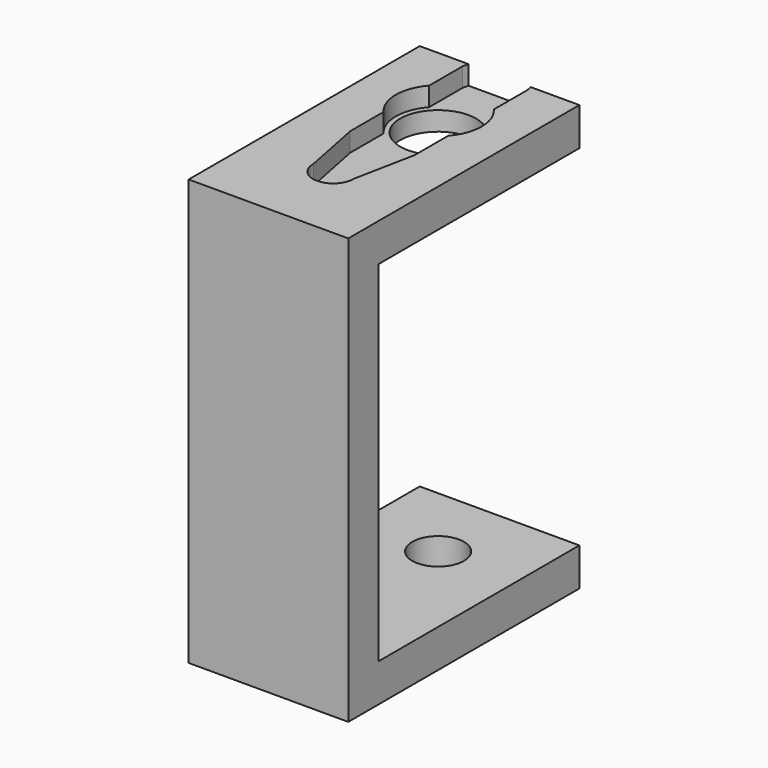
from build123d import *

# Parameters (mm, degrees)
CYLINDER018_R     = 3.4
CYLINDER018_DEPTH = 44
CYLINDER017_R     = 5
CYLINDER017_DEPTH = 9
PAD006_DEPTH      = 5
PAD004_DEPTH      = 21


with BuildPart() as cylinder018:
    # Cylinder018 → Cylinder018 (new body)
    with BuildSketch(Plane(origin=(10.5, -10.1, -9), x_dir=(1, 0, 0), z_dir=(0, 0, 1))):
        Circle(CYLINDER018_R)
    extrude(amount=CYLINDER018_DEPTH)


with BuildPart() as cylinder017:
    # Cylinder017 → Cylinder017 (new body)
    with BuildSketch(Plane(origin=(10.5, -10.1, 44), x_dir=(1, 0, 0), z_dir=(0, 0, 1))):
        Circle(CYLINDER017_R)
    extrude(amount=CYLINDER017_DEPTH)


with BuildPart() as fusion014:
    # Sketch006 → Pad006 (new body)
    with BuildSketch(Plane.XY):
        with BuildLine():
            Line((-4.25, 3.75), (-4.25, 9.25))
            Line((-4.25, 9.25), (-2.65, 17.292388))
            ThreePointArc((2.65, 17.292388), (0, 20), (-2.65, 17.292388))
            Line((2.65, 17.292388), (4.25, 9.25))
            Line((4.25, 3.75), (4.25, 9.25))
            ThreePointArc((4.25, -3.75), (5.657274, 0), (4.25, 3.75))
            Line((4.25, -3.75), (4.25, -9.25))
            Line((2.65, -17.292388), (4.25, -9.25))
            ThreePointArc((-2.65, -17.292388), (0, -20), (2.65, -17.292388))
            Line((-4.25, -9.25), (-2.65, -17.292388))
            Line((-4.25, -3.75), (-4.25, -9.25))
            ThreePointArc((-4.25, 3.75), (-5.657274, 0), (-4.25, -3.75))
        make_face()
    extrude(amount=PAD006_DEPTH)


with BuildPart() as fusion014_1:
    # Body006 placement: moved
    add(fusion014.part.moved(Location((10.5, -10, 48))))

    # Fusion014: union Cylinder017
    add(cylinder017.part)


with BuildPart() as obj1:
    # Sketch004 → Pad004 (new body)
    with BuildSketch(Plane.YZ):
        Polygon((-33, -0.5), (0, -0.5), (0, -5.5), (-38, -5.5), (-38, 50.5), (0, 50.5), (0, 45.5), (-33, 45.5), align=None)
    extrude(amount=PAD004_DEPTH)

    # Cut008: cut Fusion014
    add(fusion014_1.part, mode=Mode.SUBTRACT)

    # Cut009: cut Cylinder018
    add(cylinder018.part, mode=Mode.SUBTRACT)


solid = obj1.part
